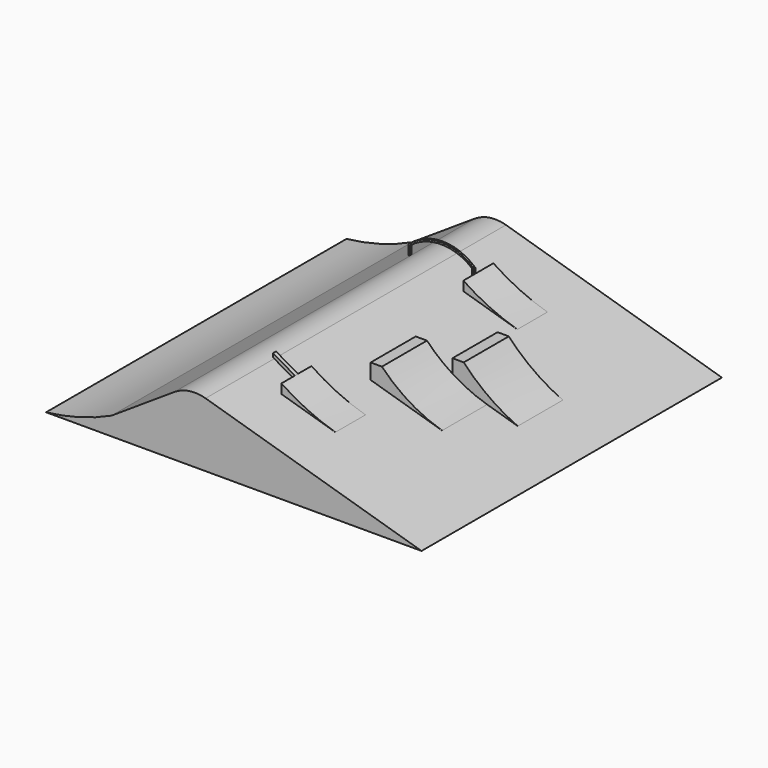
from build123d import *

# Parameters (mm, degrees)
F1_DEPTH  = 127
F2_W      = 7.62
F2_H      = 12.7
F3_DEPTH  = 38.1
F4_W      = 7.62
F4_H      = 15.24
F5_DEPTH  = 38.1
F8_DEPTH  = 12.7
F11_DEPTH = 12.7
F13_DEPTH = 1.27
F15_DEPTH = 0.635


with BuildPart() as f1:
    # F0 (on Front) → F1 (new body, symmetric)
    with BuildSketch(Plane.XZ):
        with BuildLine():
            Line((-13.943291, 40.280747), (-56.404786, 12.394164))
            ThreePointArc((-56.404786, 12.394164), (-78.038562, 4.403193), (-100.676755, 0))
            Line((-100.676755, 0), (-75.276755, 0))
            Line((-75.276755, 0), (153.323245, 0))
            Line((153.323245, 0), (7.233061, 43.398364))
            ThreePointArc((7.233061, 43.398364), (-3.699552, 44.179133), (-13.943291, 40.280747))
        make_face()
    extrude(amount=F1_DEPTH, both=True)

    # F2 (on Front) → F3 (join)
    with BuildSketch(Plane.XZ):
        with BuildLine():
            Line((55.387878, 41.793226), (55.387878, 29.093226))
            Line((55.387878, 29.093226), (96.1152, 16.994541))
            ThreePointArc((96.1152, 16.994541), (74.142006, 26.750519), (55.387878, 41.793226))
        make_face()
        with Locations((51.577878, 35.443226)):
            Rectangle(F2_W, F2_H)
    extrude(amount=F3_DEPTH)

    # F4 (on Front) → F5 (join)
    with BuildSketch(Plane.XZ):
        with BuildLine():
            ThreePointArc((116.800699, 10.849591), (97.20939, 22.032483), (80.278153, 36.939182))
            Line((80.278153, 36.939182), (80.278153, 21.699182))
            Line((80.278153, 21.699182), (116.800699, 10.849591))
        make_face()
        with Locations((76.468153, 29.319182)):
            Rectangle(F4_W, F4_H)
    extrude(amount=-F5_DEPTH)

    # F7 (on offset) → F8 (join, symmetric)
    with BuildSketch(Plane.XZ.offset(76.2)):
        with BuildLine():
            Line((28.050448, 43.564235), (28.050448, 37.214235))
            Line((28.050448, 37.214235), (64.572994, 26.364644))
            ThreePointArc((64.572994, 26.364644), (45.659641, 33.579777), (28.050448, 43.564235))
        make_face()
    extrude(amount=F8_DEPTH, both=True)

    # F10 (on offset) → F11 (join, symmetric)
    with BuildSketch(Plane.XZ.offset(-76.2)):
        with BuildLine():
            ThreePointArc((65.732546, 26.020181), (46.819193, 33.235314), (29.21, 43.219772))
            Line((29.21, 43.219772), (29.21, 36.869772))
            Line((29.21, 36.869772), (65.732546, 26.020181))
        make_face()
    extrude(amount=F11_DEPTH, both=True)

    # F12 (on offset) → F13 (join, symmetric)
    with BuildSketch(Plane.XZ.offset(76.2)):
        Polygon((28.050448, 41.024235), (28.050448, 43.564235), (13.230578, 52.120491), (13.230578, 49.580491), align=None)
    extrude(amount=F13_DEPTH, both=True)


with BuildPart() as f15:
    # F14 (on offset) → F15 (new body, symmetric)
    with BuildSketch(Plane.XZ.offset(-76.2)):
        with BuildLine():
            Line((25.4, 38.208426), (26.67, 37.624319))
            Line((26.67, 37.624319), (26.67, 44.609319))
            ThreePointArc((26.67, 44.609319), (4.506834, 53.152504), (-17.656332, 44.609319))
            Line((-17.656332, 44.609319), (-17.656332, 37.309626))
            Line((-17.656332, 37.309626), (-16.399552, 38.446255))
            Line((-16.399552, 38.446255), (-16.399552, 44.426554))
            ThreePointArc((-16.399552, 44.426554), (4.500224, 51.882521), (25.4, 44.426554))
            Line((25.4, 44.426554), (25.4, 38.208426))
        make_face()
    extrude(amount=F15_DEPTH, both=True)


solid = Compound([f1.part, f15.part])
